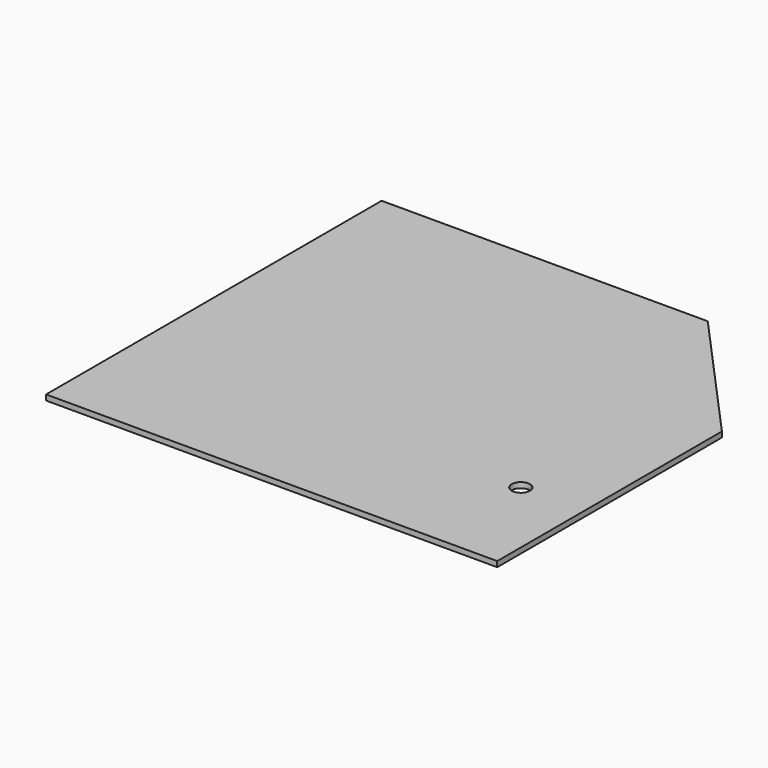
from build123d import *

# Parameters (mm, degrees)
F1_DEPTH = 3
F2_R     = 5
F3_DEPTH = 3


with BuildPart() as f1:
    # F0 (on Top) → F1 (new body)
    with BuildSketch(Plane.XY):
        Polygon((-69, 98.640618), (-249, 98.640618), (-249, -132.831599), (0, -132.831599), (0, 22.168401), align=None)
    extrude(amount=F1_DEPTH)

    # F2 (on face) → F3 (cut)
    with BuildSketch(Plane.XY.offset(3)):
        with Locations((-35, -72.831599)):
            Circle(F2_R)
    extrude(amount=-F3_DEPTH, mode=Mode.SUBTRACT)


solid = f1.part
